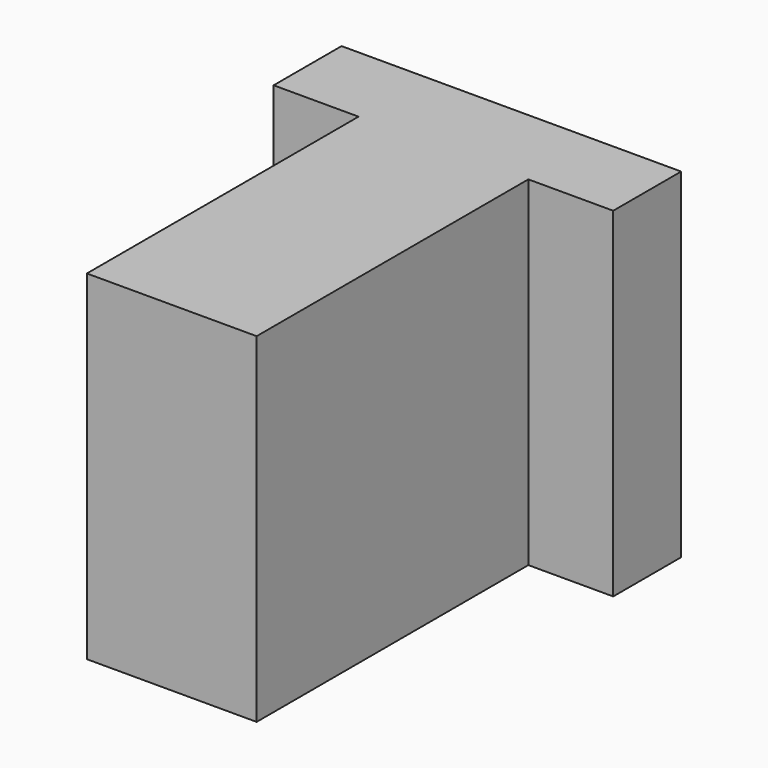
from build123d import *

# Parameters (mm, degrees)
F0_W     = 25.4
F0_H     = 31.75
F1_DEPTH = 25.4
F2_W     = 6.35
F2_H     = 25.4
F3_DEPTH = 25.401
F4_W     = 6.35
F4_H     = 25.4
F5_DEPTH = 25.401


with BuildPart() as f1:
    # F0 (on Top) → F1 (new body)
    with BuildSketch(Plane.XY):
        with Locations((12.7, 3.939376)):
            Rectangle(F0_W, F0_H)
    extrude(amount=F1_DEPTH)

    # F2 (on face) → F3 (cut, through all)
    with BuildSketch(Plane.XY.offset(25.4)):
        with Locations((3.175, 0.764376)):
            Rectangle(F2_W, F2_H)
    extrude(amount=-F3_DEPTH, mode=Mode.SUBTRACT)

    # F4 (on face) → F5 (cut, through all)
    with BuildSketch(Plane.XY.offset(25.4)):
        with Locations((22.225, 0.764376)):
            Rectangle(F4_W, F4_H)
    extrude(amount=-F5_DEPTH, mode=Mode.SUBTRACT)


solid = f1.part
